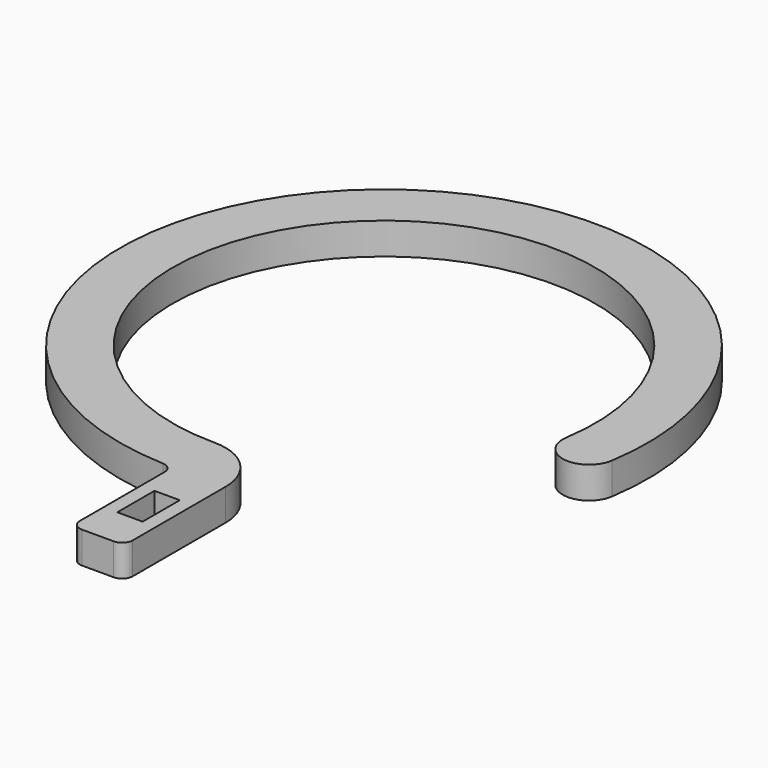
from build123d import *

# Parameters (mm, degrees)
F0_W     = 3.048
F0_H     = 5.588
F1_DEPTH = 3.81


with BuildPart() as f1:
    # F0 (on Top) → F1 (new body)
    with BuildSketch(Plane.XY):
        with BuildLine():
            ThreePointArc((0, -25.4), (-16.51, 19.302329), (25.093028, -3.937))
            ThreePointArc((25.093028, -3.937), (27.737531, -7.565753), (31.366284, -4.92125))
            ThreePointArc((31.366284, -4.92125), (-20.169598, 24.520396), (-1.221154, -31.726508))
            ThreePointArc((-1.221154, -31.726508), (-0.354868, -32.114981), (0, -32.995568))
            Line((0, -32.995568), (0, -45.72))
            ThreePointArc((0, -45.72), (0.371974, -46.618026), (1.27, -46.99))
            Line((1.27, -46.99), (5.08, -46.99))
            ThreePointArc((5.08, -46.99), (5.978026, -46.618026), (6.35, -45.72))
            Line((6.35, -45.72), (6.35, -31.75))
            ThreePointArc((6.35, -31.75), (4.490128, -27.259872), (0, -25.4))
        make_face()
        with Locations((3.175, -39.37)):
            Rectangle(F0_W, F0_H, mode=Mode.SUBTRACT)
    extrude(amount=F1_DEPTH)


solid = f1.part
